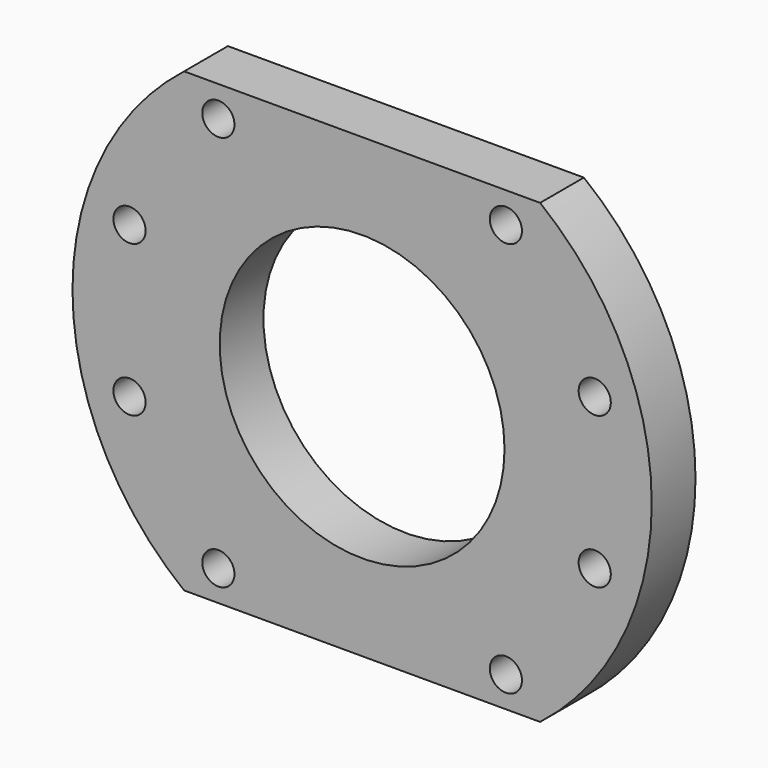
from build123d import *

# Parameters (mm, degrees)
F0_R     = 10
F0_R_2   = 88.5
F1_DEPTH = 34


with BuildPart() as f1:
    # F0 (on Front) → F1 (new body)
    with BuildSketch(Plane.XZ):
        with BuildLine():
            Line((0, 142), (-110.616454, 142))
            ThreePointArc((-110.616454, 142), (-180, 0), (-110.616454, -142))
            Line((-110.616454, -142), (0, -142))
            Line((0, -142), (110.616454, -142))
            ThreePointArc((110.616454, -142), (180, 0), (110.616454, 142))
            Line((110.616454, 142), (0, 142))
        make_face()
        with Locations((-89.343358, -122.970583)):
            Circle(F0_R, mode=Mode.SUBTRACT)
        with Locations((-144.56059, -46.970583)):
            Circle(F0_R, mode=Mode.SUBTRACT)
        with Locations((89.343358, -122.970583)):
            Circle(F0_R, mode=Mode.SUBTRACT)
        with Locations((144.56059, -46.970583)):
            Circle(F0_R, mode=Mode.SUBTRACT)
        with Locations((-144.56059, 46.970583)):
            Circle(F0_R, mode=Mode.SUBTRACT)
        with Locations((-89.343358, 122.970583)):
            Circle(F0_R, mode=Mode.SUBTRACT)
        Circle(F0_R_2, mode=Mode.SUBTRACT)
        with Locations((144.56059, 46.970583)):
            Circle(F0_R, mode=Mode.SUBTRACT)
        with Locations((89.343358, 122.970583)):
            Circle(F0_R, mode=Mode.SUBTRACT)
    extrude(amount=F1_DEPTH)


solid = f1.part
